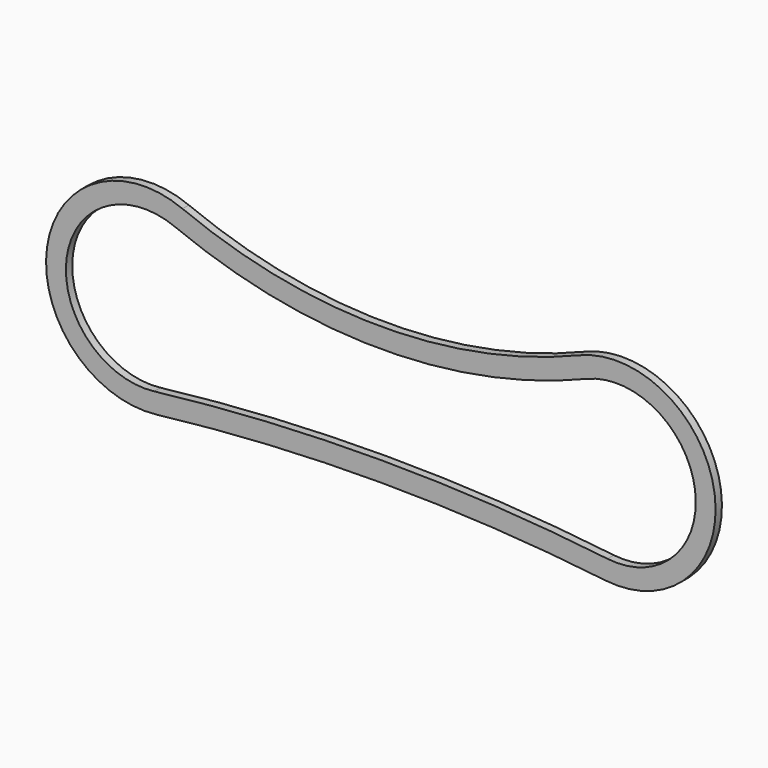
from build123d import *

# Parameters (mm, degrees)
F1_DEPTH = 20


with BuildPart() as f1:
    # F0 (on Front) → F1 (new body)
    with BuildSketch(Plane.XZ):
        with BuildLine():
            ThreePointArc((497.388939, 216.755839), (-2.886731, 118.038751), (-503.162401, 216.755839))
            ThreePointArc((-503.162401, 216.755839), (-844.938738, 19.976489), (-568.79037, -261.58213))
            ThreePointArc((-568.79037, -261.58213), (-2.886731, -228.45384), (563.016907, -261.58213))
            ThreePointArc((563.016907, -261.58213), (839.165276, 19.976489), (497.388939, 216.755839))
        make_face()
        with BuildLine():
            ThreePointArc((-574.624428, -211.923659), (-795.402793, 13.180157), (-522.155403, 170.503641))
            ThreePointArc((-522.155403, 170.503641), (-2.886731, 68.038751), (516.381941, 170.503641))
            ThreePointArc((516.381941, 170.503641), (789.62933, 13.180157), (568.850965, -211.923659))
            ThreePointArc((568.850965, -211.923659), (-2.886731, -178.45384), (-574.624428, -211.923659))
        make_face(mode=Mode.SUBTRACT)
    extrude(amount=F1_DEPTH)


solid = f1.part
